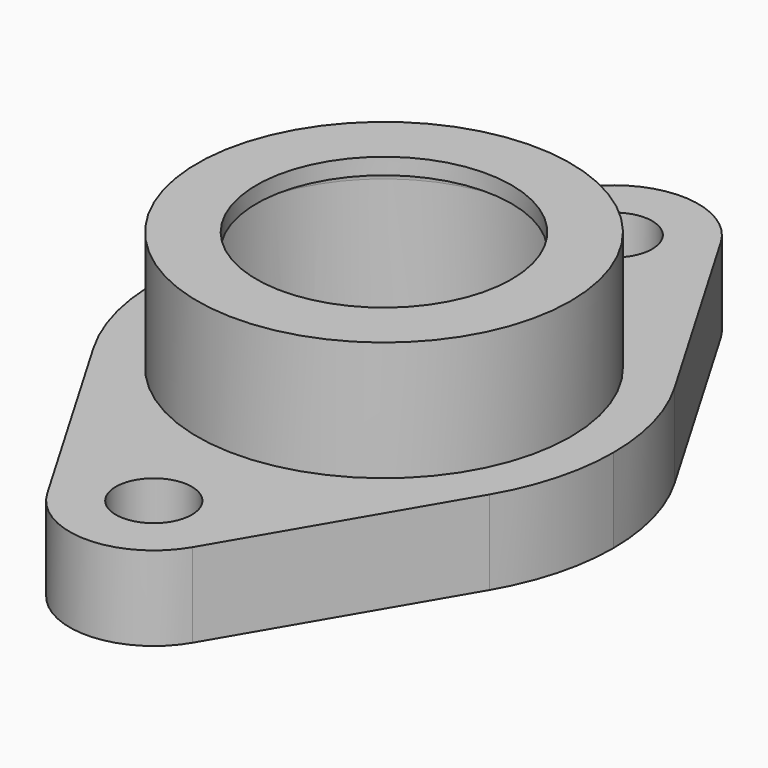
from build123d import *

# Parameters (mm, degrees)
F0_R          = 34.925
F0_R_2        = 28.575
F0_R_3        = 23.876
F1_DEPTH      = 19.05
F2_DEPTH      = 16.002
F3_DEPTH      = 19.051
F3_DEPTH_BACK = 19.051
F4_R          = 3.048
F6_START      = -22.352
F5_R          = 34.925
F5_R_2        = 7.112
F6_DEPTH      = 15.748
F9_DEPTH      = 25.4


with BuildPart() as f1:
    # F0 (on Top) → F1 (new body, symmetric)
    with BuildSketch(Plane.XY):
        Circle(F0_R)
        Circle(F0_R_2, mode=Mode.SUBTRACT)
        Circle(F0_R_2)
        Circle(F0_R_3, mode=Mode.SUBTRACT)
        Circle(F0_R_3)
    extrude(amount=F1_DEPTH, both=True)

    # F0 (on Top) → F2 (cut, symmetric)
    with BuildSketch(Plane.XY):
        Circle(F0_R_2)
        Circle(F0_R_3, mode=Mode.SUBTRACT)
        Circle(F0_R_3)
    extrude(amount=F2_DEPTH, both=True, mode=Mode.SUBTRACT)

    # F0 (on Top) → F3 (cut, two sides)
    with BuildSketch(Plane.XY) as f3_sk:
        Circle(F0_R_3)
    extrude(amount=F3_DEPTH, mode=Mode.SUBTRACT)
    extrude(f3_sk.sketch, amount=-F3_DEPTH_BACK, mode=Mode.SUBTRACT)

    # F4
    f4_edges = [f1.edges().sort_by_distance(p)[0] for p in [
        (-28.575, 0, -16.002),
        (-28.575, 0, 16.002),
    ]]
    fillet(f4_edges, radius=F4_R)

    # F5 (on face) → F6 (join)
    with BuildSketch(Plane.XY.offset(19.05).offset(F6_START)):
        with BuildLine():
            ThreePointArc((37.057366384, -21.6654811321), (41.4328733339, -11.2231227072), (42.926, 0))
            ThreePointArc((42.926, 0), (41.4328733339, 11.2231227072), (37.057366384, 21.6654811321))
            ThreePointArc((37.057366384, 21.6654811321), (0, 42.926), (-37.057366384, 21.6654811321))
            ThreePointArc((-37.057366384, 21.6654811321), (-42.926, 0), (-37.057366384, -21.6654811321))
            ThreePointArc((-37.057366384, -21.6654811321), (0, -42.926), (37.057366384, -21.6654811321))
        make_face()
        Circle(F5_R, mode=Mode.SUBTRACT)
        with BuildLine():
            ThreePointArc((-37.057366384, 21.6654811321), (0, 42.926), (37.057366384, 21.6654811321))
            Line((37.057366384, 21.6654811321), (13.5950101527, 61.7962830189))
            ThreePointArc((13.5950101527, 61.7962830189), (0, 69.596), (-13.5950101527, 61.7962830189))
            Line((-13.5950101527, 61.7962830189), (-37.057366384, 21.6654811321))
        make_face()
        with Locations((0, 53.848)):
            Circle(F5_R_2, mode=Mode.SUBTRACT)
        with BuildLine():
            Line((13.5950101527, -61.7962830189), (37.057366384, -21.6654811321))
            ThreePointArc((37.057366384, -21.6654811321), (0, -42.926), (-37.057366384, -21.6654811321))
            Line((-37.057366384, -21.6654811321), (-13.5950101527, -61.7962830189))
            ThreePointArc((-13.5950101527, -61.7962830189), (0, -69.596), (13.5950101527, -61.7962830189))
        make_face()
        with Locations((0, -53.848)):
            Circle(F5_R_2, mode=Mode.SUBTRACT)
    extrude(amount=-F6_DEPTH)

    # F8 (on offset) → F9 (cut)
    with BuildSketch(Plane.YZ.offset(-42.926)):
        with BuildLine():
            ThreePointArc((9.652, -16.002), (14.478, -11.176), (9.652, -6.35))
            Line((9.652, -6.35), (-9.652, -6.35))
            ThreePointArc((-9.652, -6.35), (-14.478, -11.176), (-9.652, -16.002))
            Line((-9.652, -16.002), (9.652, -16.002))
        make_face()
    extrude(amount=F9_DEPTH, mode=Mode.SUBTRACT)


solid = f1.part
